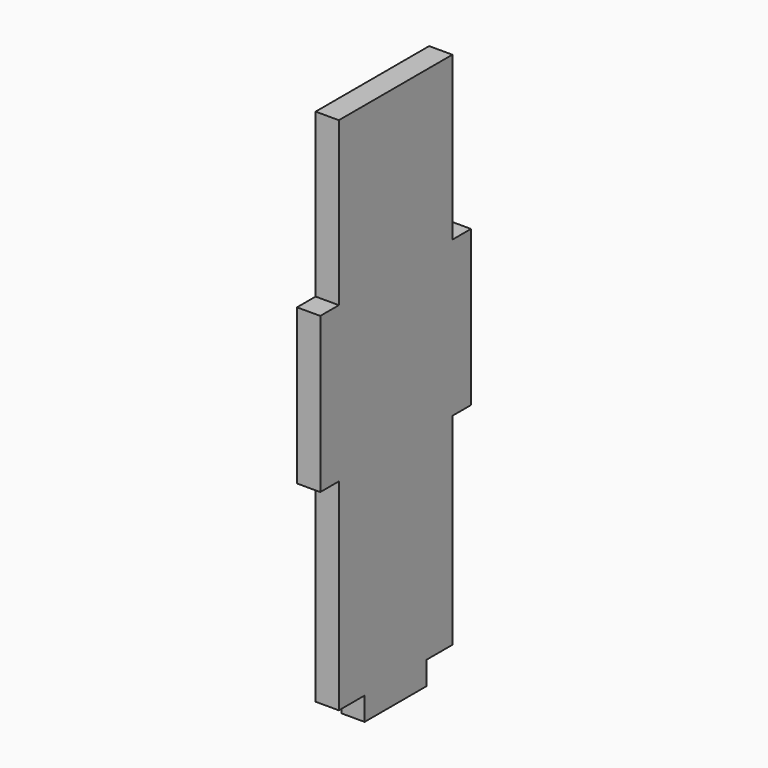
from build123d import *

# Parameters (mm, degrees)
F0_W     = 10
F0_H     = 3
F0_W_2   = 3
F0_H_2   = 20
F1_DEPTH = 3


with BuildPart() as f1:
    # F0 (on Right) → F1 (new body)
    with BuildSketch(Plane.YZ):
        Polygon((-9.15, -7.5), (-9.15, -33.5), (-5, -33.5), (-5, -30.5), (5, -30.5), (5, -33.5), (9.15, -33.5), (9.15, -7.5), (6.15, -7.5), (6.15, 12.5), (9.15, 12.5), (9.15, 33.5), (-9.15, 33.5), (-9.15, 12.5), (-6.15, 12.5), (-6.15, -7.5), align=None)
        with Locations((0, -32)):
            Rectangle(F0_W, F0_H)
        with Locations((0, -35)):
            Rectangle(F0_W, F0_H)
        with Locations((-10.65, 2.5)):
            Rectangle(F0_W_2, F0_H_2)
        with Locations((-7.65, 2.5)):
            Rectangle(F0_W_2, F0_H_2)
        with Locations((7.65, 2.5)):
            Rectangle(F0_W_2, F0_H_2)
        with Locations((10.65, 2.5)):
            Rectangle(F0_W_2, F0_H_2)
    extrude(amount=F1_DEPTH)


solid = f1.part
